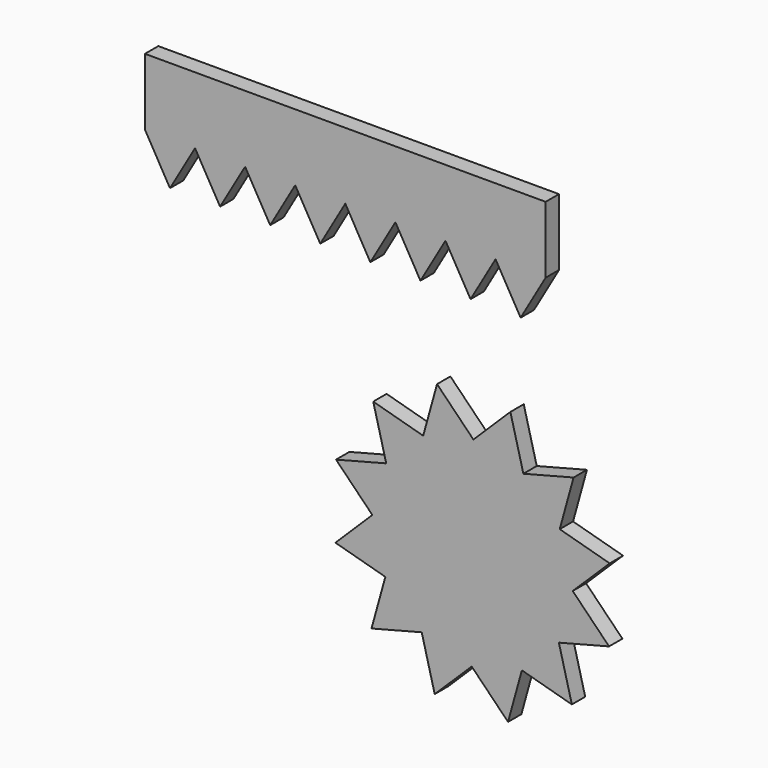
from build123d import *

# Parameters (mm, degrees)
F1_DEPTH = 6.35
F3_DEPTH = 6.35


with BuildPart() as f1:
    # F0 (on Front) → F1 (new body)
    with BuildSketch(Plane.XZ):
        with BuildLine():
            ThreePointArc((38.0985986716, -58.1672337779), (38.0996496663, -58.0038498013), (38.1, -57.84046282))
            ThreePointArc((38.1, -57.84046282), (36.8437232477, -48.1373675795), (33.1577397772, -39.0741554349))
            Line((33.1577397772, -39.0741554349), (38.0985986716, -58.1672337779))
        make_face()
        with BuildLine():
            ThreePointArc((33.1577397772, -39.0741554349), (36.8437232477, -48.1373675795), (38.1, -57.84046282))
            ThreePointArc((38.1, -57.84046282), (38.0996496663, -58.0038498013), (38.0985986716, -58.1672337779))
            Line((38.0985986716, -58.1672337779), (52.1632601058, -44.3417852873))
            Line((52.1632601058, -44.3417852873), (33.1577397772, -39.0741554349))
        make_face()
        with BuildLine():
            Line((19.3322912866, -25.0094940007), (33.1577397772, -39.0741554349))
            ThreePointArc((33.1577397772, -39.0741554349), (27.1708394346, -31.1317473058), (19.3322912866, -25.0094940007))
        make_face()
        Polygon((38.0985986716, -58.1672337779), (33.1577397772, -39.0741554349), (19.3322912866, -25.0094940007), (0.3267709579, -19.7418641484), (-18.7663073851, -24.6827230428), (-32.8309688193, -38.5081715334), (-38.0985986716, -57.5136918621), (-33.1577397772, -76.606770205), (-19.3322912866, -90.6714316392), (-0.3267709579, -95.9390614916), (18.7663073851, -90.9982025971), (32.8309688193, -77.1727541065), align=None)
        with BuildLine():
            ThreePointArc((19.3322912866, -25.0094940007), (27.1708394346, -31.1317473058), (33.1577397772, -39.0741554349))
            Line((33.1577397772, -39.0741554349), (38.4253696295, -20.0686351062))
            Line((38.4253696295, -20.0686351062), (19.3322912866, -25.0094940007))
        make_face()
        with BuildLine():
            Line((51.9240471622, -72.2318952121), (38.0985986716, -58.1672337779))
            ThreePointArc((38.0985986716, -58.1672337779), (36.7158458551, -68.0167422554), (32.8309688193, -77.1727541065))
            Line((32.8309688193, -77.1727541065), (51.9240471622, -72.2318952121))
        make_face()
        with BuildLine():
            ThreePointArc((32.8309688193, -77.1727541065), (36.7158458551, -68.0167422554), (38.0985986716, -58.1672337779))
            Line((38.0985986716, -58.1672337779), (32.8309688193, -77.1727541065))
        make_face()
        with BuildLine():
            Line((0.3267709579, -19.7418641484), (19.3322912866, -25.0094940007))
            ThreePointArc((19.3322912866, -25.0094940007), (10.1762794354, -21.1246169649), (0.3267709579, -19.7418641484))
        make_face()
        with BuildLine():
            ThreePointArc((0.3267709579, -19.7418641484), (10.1762794354, -21.1246169649), (19.3322912866, -25.0094940007))
            Line((19.3322912866, -25.0094940007), (14.3914323921, -5.9164156578))
            Line((14.3914323921, -5.9164156578), (0.3267709579, -19.7418641484))
        make_face()
        with BuildLine():
            Line((37.7718277137, -96.2658324495), (32.8309688193, -77.1727541065))
            ThreePointArc((32.8309688193, -77.1727541065), (26.7087155142, -85.0113022546), (18.7663073851, -90.9982025971))
            Line((18.7663073851, -90.9982025971), (37.7718277137, -96.2658324495))
        make_face()
        with BuildLine():
            ThreePointArc((18.7663073851, -90.9982025971), (26.7087155142, -85.0113022546), (32.8309688193, -77.1727541065))
            Line((32.8309688193, -77.1727541065), (18.7663073851, -90.9982025971))
        make_face()
        with BuildLine():
            Line((-18.7663073851, -24.6827230428), (0.3267709579, -19.7418641484))
            ThreePointArc((0.3267709579, -19.7418641484), (-9.5450064204, -20.9554678703), (-18.7663073851, -24.6827230428))
        make_face()
        with BuildLine():
            ThreePointArc((-18.7663073851, -24.6827230428), (-9.5450064204, -20.9554678703), (0.3267709579, -19.7418641484))
            Line((0.3267709579, -19.7418641484), (-13.4986775327, -5.6772027141))
            Line((-13.4986775327, -5.6772027141), (-18.7663073851, -24.6827230428))
        make_face()
        with BuildLine():
            Line((13.4986775327, -110.0037229258), (18.7663073851, -90.9982025971))
            ThreePointArc((18.7663073851, -90.9982025971), (9.5450064204, -94.7254577696), (-0.3267709579, -95.9390614916))
            Line((-0.3267709579, -95.9390614916), (13.4986775327, -110.0037229258))
        make_face()
        with BuildLine():
            ThreePointArc((-0.3267709579, -95.9390614916), (9.5450064204, -94.7254577696), (18.7663073851, -90.9982025971))
            Line((18.7663073851, -90.9982025971), (-0.3267709579, -95.9390614916))
        make_face()
        with BuildLine():
            Line((-32.8309688193, -38.5081715334), (-18.7663073851, -24.6827230428))
            ThreePointArc((-18.7663073851, -24.6827230428), (-26.7087155142, -30.6696233853), (-32.8309688193, -38.5081715334))
        make_face()
        with BuildLine():
            ThreePointArc((-32.8309688193, -38.5081715334), (-26.7087155142, -30.6696233853), (-18.7663073851, -24.6827230428))
            Line((-18.7663073851, -24.6827230428), (-37.7718277137, -19.4150931905))
            Line((-37.7718277137, -19.4150931905), (-32.8309688193, -38.5081715334))
        make_face()
        with BuildLine():
            Line((-14.3914323921, -109.7645099822), (-0.3267709579, -95.9390614916))
            ThreePointArc((-0.3267709579, -95.9390614916), (-10.1762794354, -94.556308675), (-19.3322912866, -90.6714316392))
            Line((-19.3322912866, -90.6714316392), (-14.3914323921, -109.7645099822))
        make_face()
        with BuildLine():
            ThreePointArc((-19.3322912866, -90.6714316392), (-10.1762794354, -94.556308675), (-0.3267709579, -95.9390614916))
            Line((-0.3267709579, -95.9390614916), (-19.3322912866, -90.6714316392))
        make_face()
        with BuildLine():
            Line((-38.0985986716, -57.5136918621), (-32.8309688193, -38.5081715334))
            ThreePointArc((-32.8309688193, -38.5081715334), (-36.7158458551, -47.6641833845), (-38.0985986716, -57.5136918621))
        make_face()
        with BuildLine():
            ThreePointArc((-38.0985986716, -57.5136918621), (-36.7158458551, -47.6641833845), (-32.8309688193, -38.5081715334))
            Line((-32.8309688193, -38.5081715334), (-51.9240471622, -43.4490304279))
            Line((-51.9240471622, -43.4490304279), (-38.0985986716, -57.5136918621))
        make_face()
        with BuildLine():
            Line((-38.4253696295, -95.6122905337), (-19.3322912866, -90.6714316392))
            ThreePointArc((-19.3322912866, -90.6714316392), (-27.1708394346, -84.5491783342), (-33.1577397772, -76.606770205))
            Line((-33.1577397772, -76.606770205), (-38.4253696295, -95.6122905337))
        make_face()
        with BuildLine():
            ThreePointArc((-33.1577397772, -76.606770205), (-27.1708394346, -84.5491783342), (-19.3322912866, -90.6714316392))
            Line((-19.3322912866, -90.6714316392), (-33.1577397772, -76.606770205))
        make_face()
        with BuildLine():
            Line((-33.1577397772, -76.606770205), (-38.0985986716, -57.5136918621))
            ThreePointArc((-38.0985986716, -57.5136918621), (-36.8849949496, -67.3854692404), (-33.1577397772, -76.606770205))
        make_face()
        with BuildLine():
            ThreePointArc((-33.1577397772, -76.606770205), (-36.8849949496, -67.3854692404), (-38.0985986716, -57.5136918621))
            Line((-38.0985986716, -57.5136918621), (-52.1632601058, -71.3391403527))
            Line((-52.1632601058, -71.3391403527), (-33.1577397772, -76.606770205))
        make_face()
    extrude(amount=F1_DEPTH)


with BuildPart() as f3:
    # F2 (on Front) → F3 (new body)
    with BuildSketch(Plane.XZ):
        Polygon((27.8069832219, 68.7868047178), (-124.5930167781, 68.7868047178), (-124.5930167781, 43.3868047178), (-105.5430167781, 43.3868047178), (-86.4930167781, 43.3868047178), (-67.4430167781, 43.3868047178), (-48.3930167781, 43.3868047178), (-29.3430167781, 43.3868047178), (-10.2930167781, 43.3868047178), (8.7569832219, 43.3868047178), (27.8069832219, 43.3868047178), align=None)
        Polygon((-105.5430167781, 43.3868047178), (-124.5930167781, 43.3868047178), (-115.0680167781, 26.8890207757), align=None)
        Polygon((18.2819832219, 26.8890207757), (27.8069832219, 43.3868047178), (8.7569832219, 43.3868047178), align=None)
        Polygon((-86.4930167781, 43.3868047178), (-105.5430167781, 43.3868047178), (-96.0180167781, 26.8890207757), align=None)
        Polygon((-0.7680167781, 26.8890207757), (8.7569832219, 43.3868047178), (-10.2930167781, 43.3868047178), align=None)
        Polygon((-67.4430167781, 43.3868047178), (-86.4930167781, 43.3868047178), (-76.9680167781, 26.8890207757), align=None)
        Polygon((-19.8180167781, 26.8890207757), (-10.2930167781, 43.3868047178), (-29.3430167781, 43.3868047178), align=None)
        Polygon((-48.3930167781, 43.3868047178), (-67.4430167781, 43.3868047178), (-57.9180167781, 26.8890207757), align=None)
        Polygon((-38.8680167781, 26.8890207757), (-29.3430167781, 43.3868047178), (-48.3930167781, 43.3868047178), align=None)
    extrude(amount=F3_DEPTH)


solid = Compound([f1.part, f3.part])
